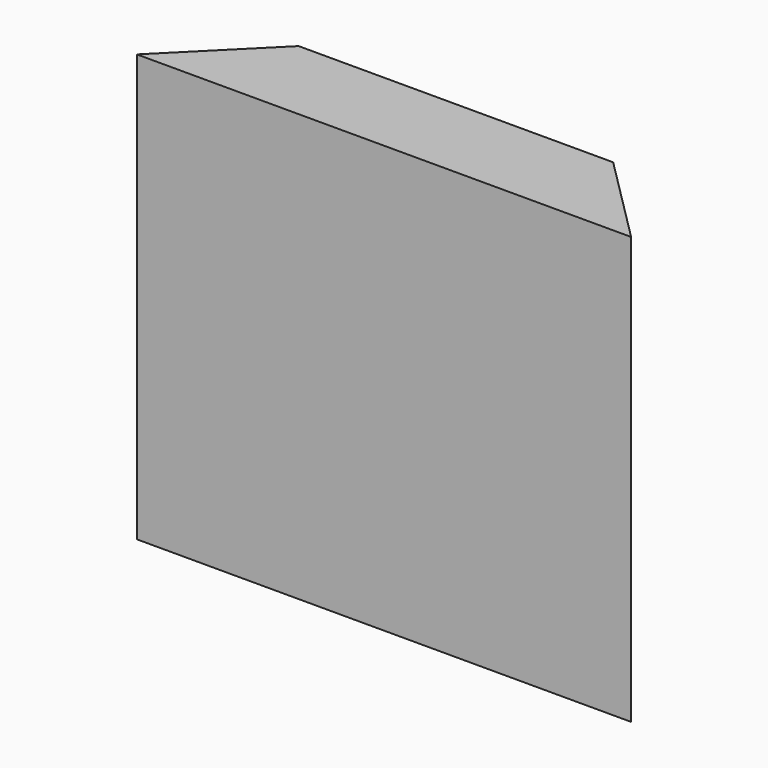
from build123d import *

# Parameters (mm, degrees)
F0_W     = 69.85
F0_H     = 60.33
F1_DEPTH = 12.7
F3_DEPTH = 76.2


with BuildPart() as f1:
    # F0 (on Front) → F1 (new body)
    with BuildSketch(Plane.XZ):
        with Locations((34.925, 30.165)):
            Rectangle(F0_W, F0_H)
    extrude(amount=F1_DEPTH)

    # F2 (on face) → F3 (cut)
    with BuildSketch(Plane.XY.offset(60.33)):
        Polygon((12.7, 0), (0, 0), (0, -12.7), align=None)
        Polygon((69.85, 0), (57.15, 0), (69.85, -12.7), align=None)
    extrude(amount=-F3_DEPTH, mode=Mode.SUBTRACT)


solid = f1.part
